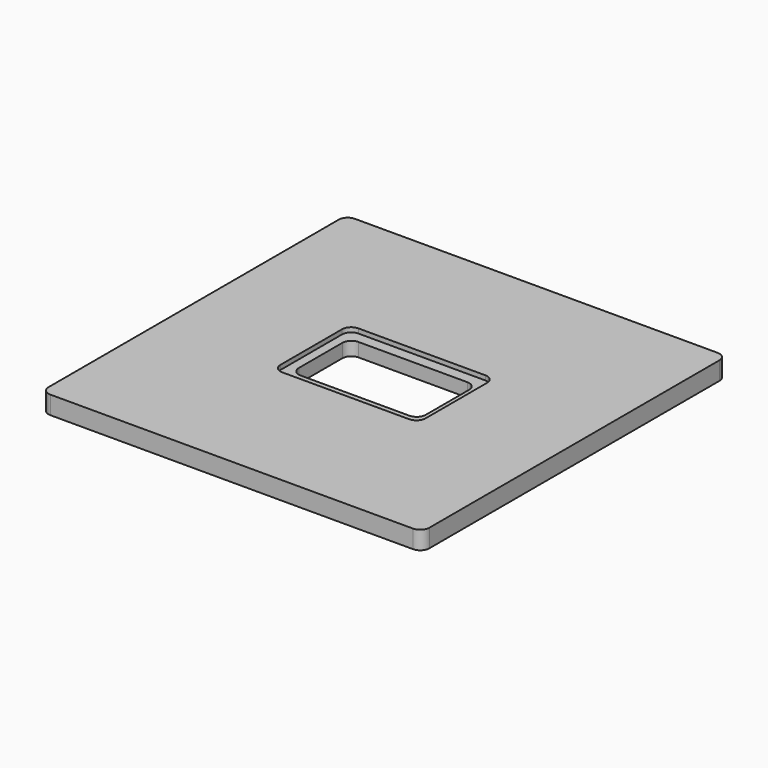
from build123d import *

# Parameters (mm, degrees)
F1_DEPTH = 12.7
F3_DEPTH = 3.175


with BuildPart() as f1:
    # F0 (on Top) → F1 (new body)
    with BuildSketch(Plane.XY):
        with BuildLine():
            Line((213.760845, 133.35), (-40.239155, 133.35))
            ThreePointArc((-40.239155, 133.35), (-44.729283, 131.490128), (-46.589155, 127))
            Line((-46.589155, 127), (-46.589155, -127))
            ThreePointArc((-46.589155, -127), (-44.729283, -131.490128), (-40.239155, -133.35))
            Line((-40.239155, -133.35), (213.760845, -133.35))
            ThreePointArc((213.760845, -133.35), (218.250973, -131.490128), (220.110845, -127))
            Line((220.110845, -127), (220.110845, 127))
            ThreePointArc((220.110845, 127), (218.250973, 131.490128), (213.760845, 133.35))
        make_face()
        with BuildLine():
            ThreePointArc((42.310845, 19.05), (44.170717, 23.540128), (48.660845, 25.4))
            Line((48.660845, 25.4), (124.860845, 25.4))
            ThreePointArc((124.860845, 25.4), (129.350973, 23.540128), (131.210845, 19.05))
            Line((131.210845, 19.05), (131.210845, -19.05))
            ThreePointArc((131.210845, -19.05), (129.350973, -23.540128), (124.860845, -25.4))
            Line((124.860845, -25.4), (48.660845, -25.4))
            ThreePointArc((48.660845, -25.4), (44.170717, -23.540128), (42.310845, -19.05))
            Line((42.310845, -19.05), (42.310845, 19.05))
        make_face(mode=Mode.SUBTRACT)
    extrude(amount=F1_DEPTH)

    # F2 (on face) → F3 (cut)
    with BuildSketch(Plane.XY.offset(12.7)):
        with BuildLine():
            Line((131.20583, 33.17691), (42.30583, 33.17691))
            ThreePointArc((42.30583, 33.17691), (37.815701, 31.317038), (35.95583, 26.82691))
            Line((35.95583, 26.82691), (35.95583, -27.14809))
            ThreePointArc((35.95583, -27.14809), (37.815701, -31.638218), (42.30583, -33.49809))
            Line((42.30583, -33.49809), (131.20583, -33.49809))
            ThreePointArc((131.20583, -33.49809), (135.695958, -31.638218), (137.55583, -27.14809))
            Line((137.55583, -27.14809), (137.55583, 26.82691))
            ThreePointArc((137.55583, 26.82691), (135.695958, 31.317038), (131.20583, 33.17691))
        make_face()
        with BuildLine():
            Line((124.860845, -25.4), (48.660845, -25.4))
            ThreePointArc((48.660845, -25.4), (44.170717, -23.540128), (42.310845, -19.05))
            Line((42.310845, -19.05), (42.310845, 19.05))
            ThreePointArc((42.310845, 19.05), (44.170717, 23.540128), (48.660845, 25.4))
            Line((48.660845, 25.4), (124.860845, 25.4))
            ThreePointArc((124.860845, 25.4), (129.350973, 23.540128), (131.210845, 19.05))
            Line((131.210845, 19.05), (131.210845, -19.05))
            ThreePointArc((131.210845, -19.05), (129.350973, -23.540128), (124.860845, -25.4))
        make_face(mode=Mode.SUBTRACT)
    extrude(amount=-F3_DEPTH, mode=Mode.SUBTRACT)


solid = f1.part
